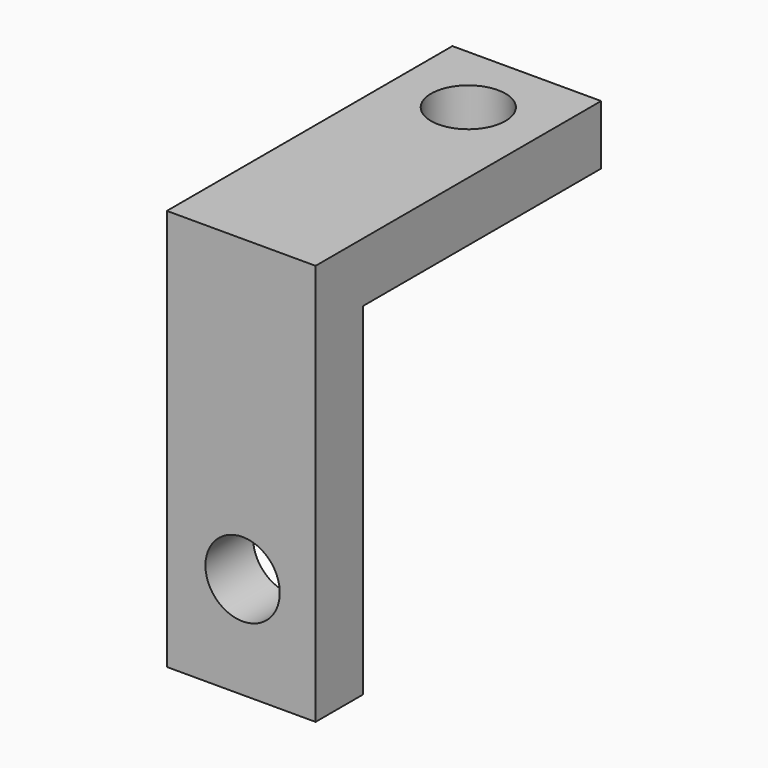
from build123d import *

# Parameters (mm, degrees)
F1_DEPTH = 10
F2_R     = 2.5
F3_DEPTH = 25
F4_R     = 2.5
F5_DEPTH = 36.2


with BuildPart() as f1:
    # F0 (on Right) → F1 (new body)
    with BuildSketch(Plane.YZ):
        Polygon((-4, 0), (0, 0), (0, 23), (20, 23), (20, 27), (-4, 27), align=None)
    extrude(amount=F1_DEPTH)

    # F2 (on face) → F3 (cut)
    with BuildSketch(Plane(origin=(0, 0, 0), x_dir=(-1, 0, 0), z_dir=(0, 1, 0))):
        with Locations((-5.093283, 6.856344)):
            Circle(F2_R)
    extrude(amount=-F3_DEPTH, mode=Mode.SUBTRACT)

    # F4 (on face) → F5 (cut)
    with BuildSketch(Plane.XY.offset(27)):
        with Locations((5, 15.083956)):
            Circle(F4_R)
    extrude(amount=-F5_DEPTH, mode=Mode.SUBTRACT)


solid = f1.part
